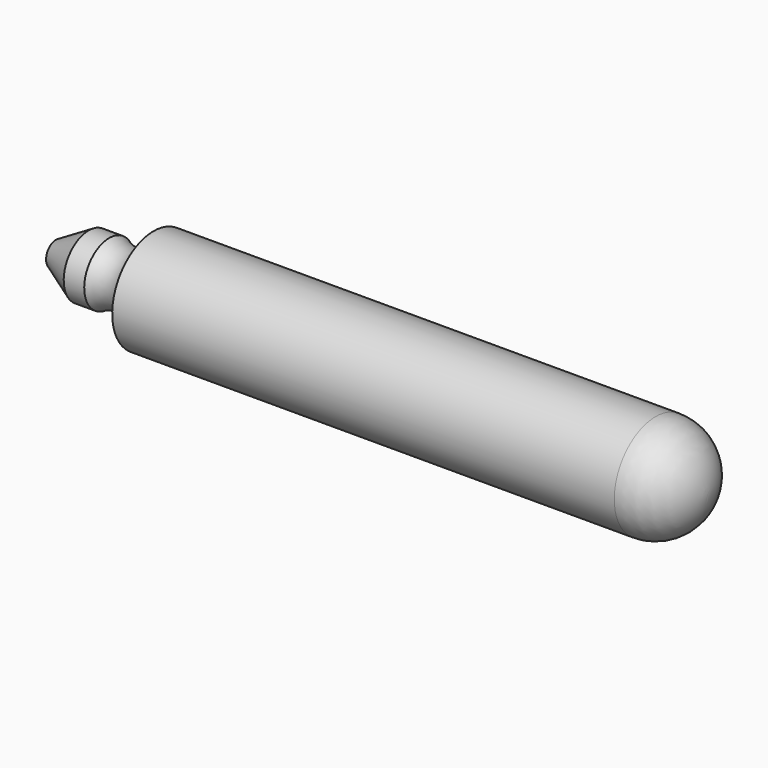
from build123d import *

# Parameters (mm, degrees)
F0_R     = 1.3589
F1_DEPTH = 13.1826


with BuildPart() as f1:
    # F0 (on Right) → F1 (new body)
    with BuildSketch(Plane.YZ):
        Circle(F0_R)
    extrude(amount=F1_DEPTH)

    # F2 (on Front) → F3 (revolve)
    with BuildSketch(Plane.XZ):
        with BuildLine():
            Line((14.5415, 0), (13.1826, 0))
            Line((13.1826, 0), (13.1826, -1.3589))
            ThreePointArc((13.1826, -1.3589), (14.143487, -0.960887), (14.5415, 0))
        make_face()
    revolve(axis=Axis((13.86205, 0, 0), (1, 0, 0)))

    # F4 (on Front) → F5 (revolve)
    with BuildSketch(Plane.XZ):
        with BuildLine():
            ThreePointArc((-1.166674, -0.81915), (-0.435246, -0.768925), (0, -1.3589))
            Line((0, -1.3589), (0, 0))
            Line((0, 0), (-2.5654, 0))
            Line((-2.5654, 0), (-2.5654, -0.322497))
            Line((-2.5654, -0.322497), (-1.705171, -0.81915))
            Line((-1.705171, -0.81915), (-1.166674, -0.81915))
        make_face()
    revolve(axis=Axis((-1.2827, 0, 0), (1, 0, 0)))


solid = f1.part
